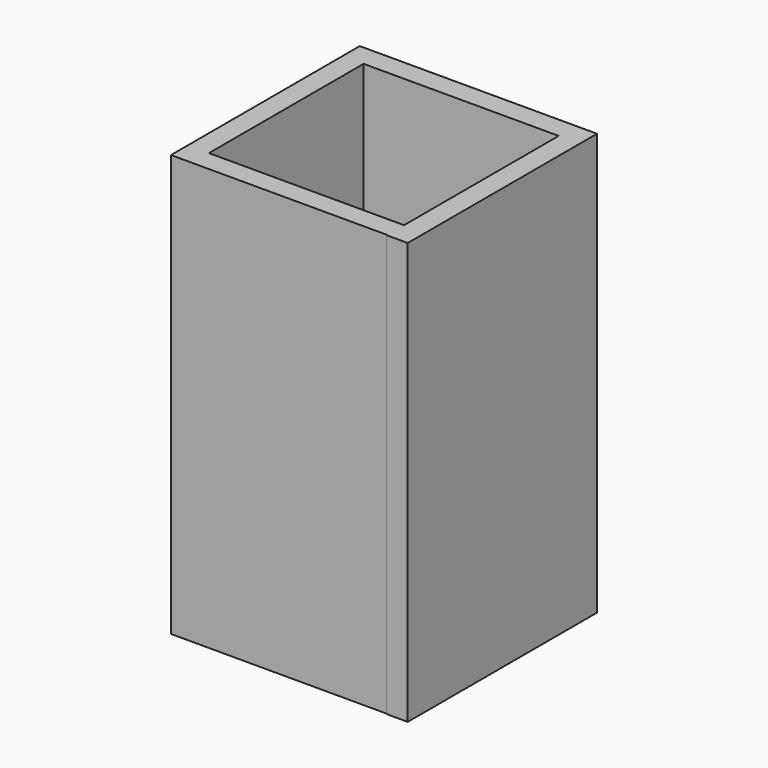
from build123d import *

# Parameters (mm, degrees)
F0_W     = 117.5417516827
F0_H     = 12.7
F0_H_2   = 12.9770076108
F1_DEPTH = 254


with BuildPart() as f1:
    # F0 (on Top) → F1 (new body)
    with BuildSketch(Plane.XY):
        Polygon((-71.8018082797, 70.6772367408), (-71.8018082797, -71.4734956291), (-59.1018082797, -71.4734956291), (-59.1018082797, -58.7734956291), (-59.1018082797, 57.70022913), (-59.1018082797, 70.6772367408), align=None)
        with Locations((-0.3309324384, -65.1234956291)):
            Rectangle(F0_W, F0_H)
        Polygon((58.439943403, -58.7734956291), (58.439943403, -71.4734956291), (58.439943403, -71.8612532069), (71.139943403, -71.8612532069), (71.139943403, 70.6772367408), (58.439943403, 70.6772367408), (58.439943403, 57.70022913), align=None)
        with Locations((-0.3309324384, 64.1887329354)):
            Rectangle(F0_W, F0_H_2)
    extrude(amount=F1_DEPTH)


solid = f1.part
